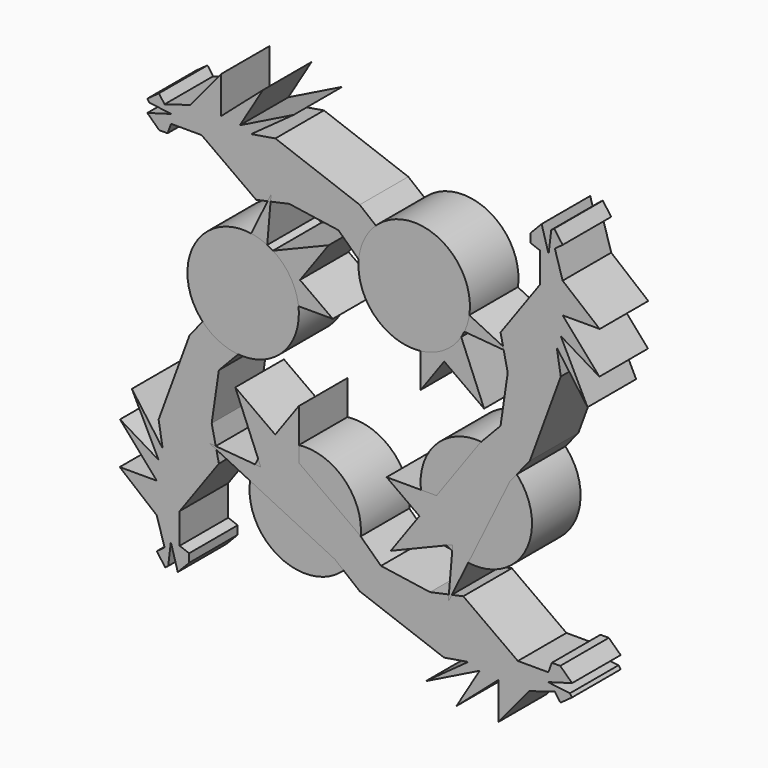
from build123d import *

# Parameters (mm, degrees)
F0_R     = 23.313961
F2_DEPTH = 25.4
F3_COUNT = 4


with BuildPart() as f2:
    # F0 (on Front) → F2 (new body)
    with BuildSketch(Plane.XZ):
        Polygon((62.870681, 37.076492), (10.388106, 62.747657), (0, 71.159311), (-35.27813, 84.11096), (-45.385195, 82.417533), (-27.603952, 95.292013), (-50.15571, 84.11096), (-40.468881, 100.25226), (-58.058733, 84.877267), (-58.058733, 100.385699), (-70.807213, 84.877267), (-81.616396, 81.615627), (-83.977982, 84.877267), (-88.833779, 81.361435), (-87.934434, 80.119328), (-78.732098, 78.990523), (-88.833779, 76.093931), (-83.882751, 71.347706), (-80.367694, 71.347706), (-78.899728, 75.315125), (-66.150228, 75.315125), (-43.320836, 58.910243), (-29.439771, 61.9147), (-8.903253, 58.910243), (0, 50.439905), (25.487203, 32.125157), (25.487203, 11.254875), (35.349735, 24.97979), (52.032541, 12.991758), (41.388631, 38.882047), align=None)
        with Locations((-22.777913, -48.756301)):
            Circle(F0_R)
    extrude(amount=F2_DEPTH)


with BuildPart() as f3_1:
    # F3: instance of F2
    add(f2.part.rotate(Axis((0, -18.039752, 0), (0, -1, 0)), 1 * 360 / F3_COUNT))


with BuildPart() as f3_2:
    # F3: instance of F2
    add(f2.part.rotate(Axis((0, -18.039752, 0), (0, -1, 0)), 2 * 360 / F3_COUNT))


with BuildPart() as f3_3:
    # F3: instance of F2
    add(f2.part.rotate(Axis((0, -18.039752, 0), (0, -1, 0)), 3 * 360 / F3_COUNT))


solid = Compound([f2.part, f3_1.part, f3_2.part, f3_3.part])
